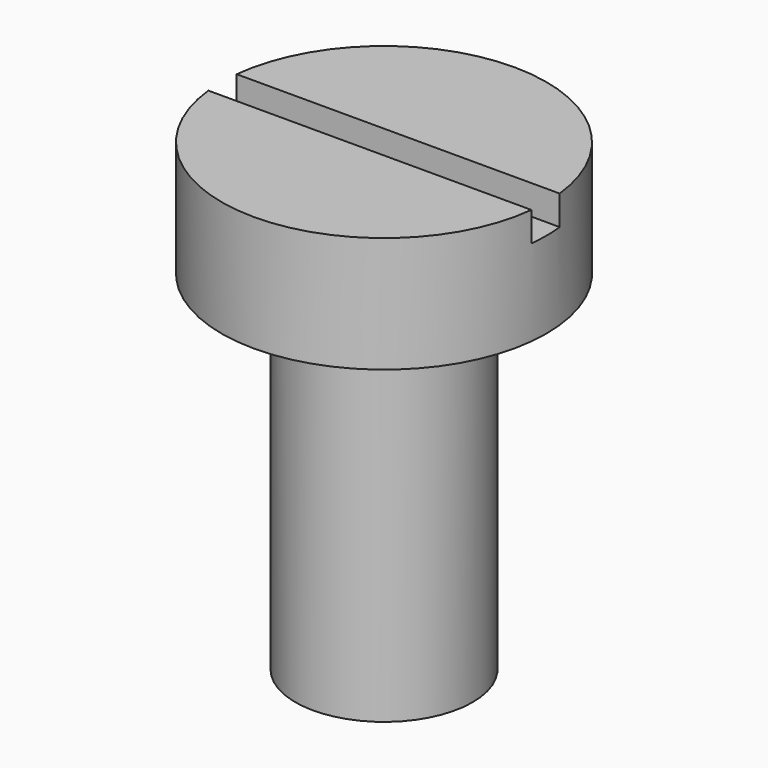
from build123d import *

# Parameters (mm, degrees)
SKETCH001_W  = 5.867174
SKETCH001_H  = 0.6
POCKET_DEPTH = 0.5


with BuildPart() as part:
    # Sketch → Revolution (revolve)
    with BuildSketch(Plane.XZ):
        Polygon((0, 0), (1.5, 0), (1.5, 5.9), (2.75, 5.9), (2.75, 7.86), (0, 7.86), align=None)
    revolve(axis=Axis((0, 0, 0), (0, 0, 1)))

    # Sketch001 → Pocket (cut)
    with BuildSketch(Plane(origin=(0, 0, 7.86), x_dir=(-1, 0, 0), z_dir=(0, 0, 1))):
        Rectangle(SKETCH001_W, SKETCH001_H)
    extrude(amount=-POCKET_DEPTH, mode=Mode.SUBTRACT)


solid = part.part
